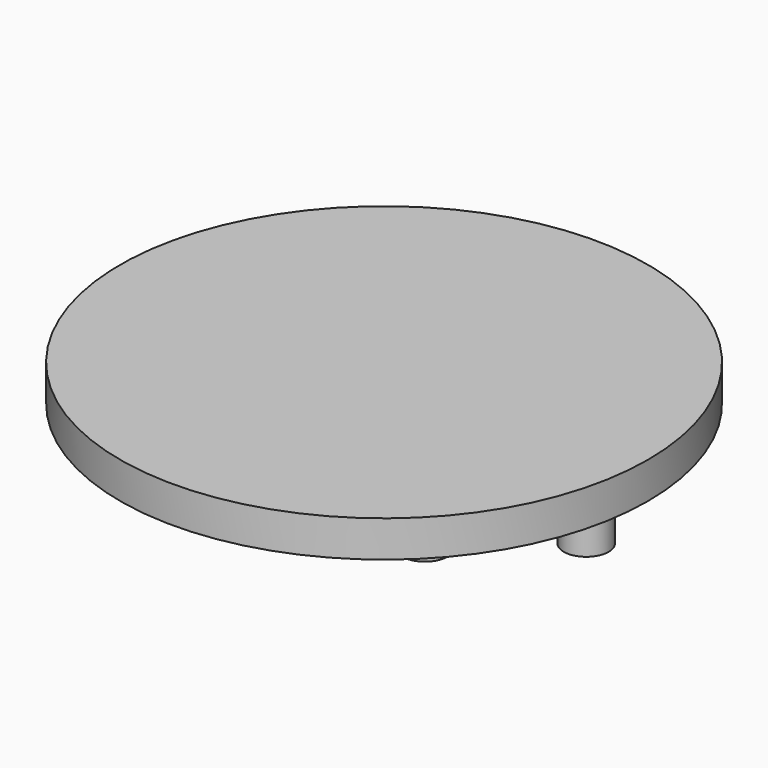
from build123d import *

# Parameters (mm, degrees)
CYLINDER_R      = 93.98
CYLINDER_DEPTH  = 12.954
SKETCH014_R     = 2.3876
POCKET006_DEPTH = 10.16
SKETCH015_R     = 8.001
PAD006_DEPTH    = 29.972


with BuildPart() as part:
    # Cylinder → Cylinder (new body)
    with BuildSketch(Plane(origin=(0, 0, -7.6454), x_dir=(1, 0, 0), z_dir=(0, 0, -1))):
        Circle(CYLINDER_R)
    extrude(amount=CYLINDER_DEPTH)

    # Sketch014 → Pocket006 (cut)
    with BuildSketch(Plane(origin=(0, 0, -20.5994), x_dir=(1, 0, 0), z_dir=(0, 0, -1))):
        with Locations((-59.718703, 59.718703)):
            Circle(SKETCH014_R)
        with Locations((59.718703, -59.718703)):
            Circle(SKETCH014_R)
        with Locations((59.718703, 59.718703)):
            Circle(SKETCH014_R)
        with Locations((-59.718703, -59.718703)):
            Circle(SKETCH014_R)
    extrude(amount=-POCKET006_DEPTH, mode=Mode.SUBTRACT)

    # Sketch015 → Pad006 (new body)
    with BuildSketch(Plane(origin=(0, 0, -20.5994), x_dir=(1, 0, 0), z_dir=(0, 0, -1))):
        with Locations((27.383657, 16.068535)):
            Circle(SKETCH015_R)
        with Locations((60.575206, -14.25543)):
            Circle(SKETCH015_R)
    extrude(amount=PAD006_DEPTH)


solid = part.part
